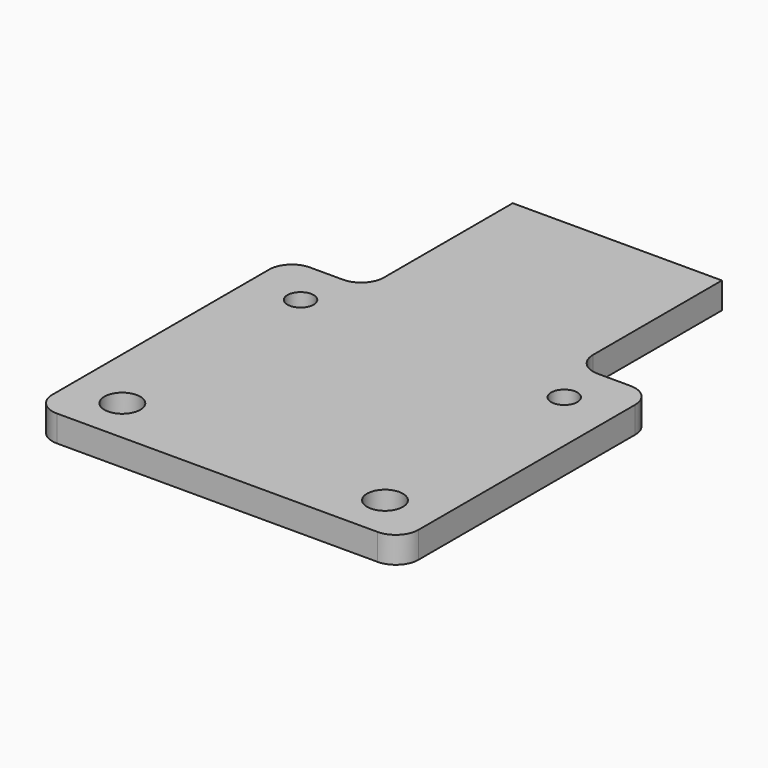
from build123d import *

# Parameters (mm, degrees)
F0_R     = 3.4
F0_R_2   = 2.48
F1_DEPTH = 5
F2_R     = 4.3


with BuildPart() as f1:
    # F0 (on Top) → F1 (new body)
    with BuildSketch(Plane.XY):
        Polygon((0, 59.96), (0, 0), (69.4, 0), (69.4, 59.96), (54.53, 59.96), (54.53, 94.8), (14.87, 94.8), (14.87, 59.96), align=None)
        with Locations((9.8, 8.62)):
            Circle(F0_R, mode=Mode.SUBTRACT)
        with Locations((59.6, 8.62)):
            Circle(F0_R, mode=Mode.SUBTRACT)
        with Locations((9.7, 50.98)):
            Circle(F0_R_2, mode=Mode.SUBTRACT)
        with Locations((59.7, 50.98)):
            Circle(F0_R_2, mode=Mode.SUBTRACT)
    extrude(amount=F1_DEPTH)

    # F2
    f2_edges = [f1.edges().sort_by_distance(p)[0] for p in [
        (54.53, 59.96, 2.5),
        (14.87, 59.96, 2.5),
        (0, 59.96, 2.5),
        (69.4, 59.96, 2.5),
        (69.4, 0, 2.5),
        (0, 0, 2.5),
    ]]
    fillet(f2_edges, radius=F2_R)


solid = f1.part
